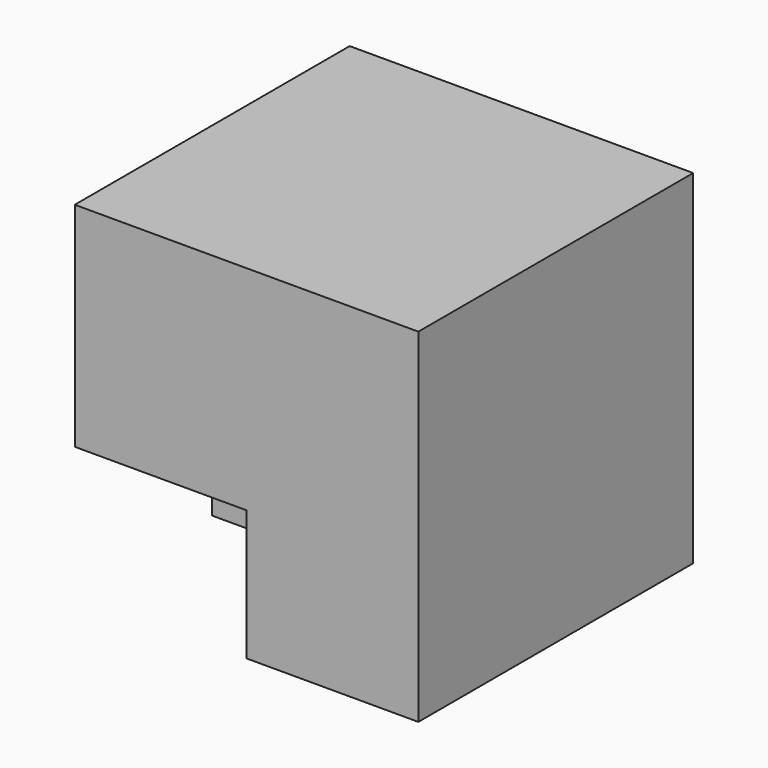
from build123d import *

# Parameters (mm, degrees)
F0_W     = 50.8
F0_H     = 50.8
F1_DEPTH = 50.8
F2_W     = 25.4
F2_H     = 25.4
F3_DEPTH = 25.4
F4_W     = 25.4
F4_H     = 25.4
F5_DEPTH = 25.4
F6_W     = 25.4
F6_H     = 19.28642
F7_DEPTH = 25.4


with BuildPart() as f1:
    # F0 (on Front) → F1 (new body)
    with BuildSketch(Plane.XZ):
        with Locations((-25.4, 25.4)):
            Rectangle(F0_W, F0_H)
    extrude(amount=F1_DEPTH)

    # F2 (on Front) → F3 (cut)
    with BuildSketch(Plane.XZ):
        with Locations((-37.521074, 12.7)):
            Rectangle(F2_W, F2_H)
    extrude(amount=-F3_DEPTH, mode=Mode.SUBTRACT)

    # F4 (on Front) → F5 (cut)
    with BuildSketch(Plane.XZ):
        with Locations((-37.33012, 12.7)):
            Rectangle(F4_W, F4_H)
    extrude(amount=-F5_DEPTH, mode=Mode.SUBTRACT)

    # F6 (on face) → F7 (cut)
    with BuildSketch(Plane.XZ.offset(50.8)):
        with Locations((-38.1, 9.64321)):
            Rectangle(F6_W, F6_H)
    extrude(amount=-F7_DEPTH, mode=Mode.SUBTRACT)


solid = f1.part
